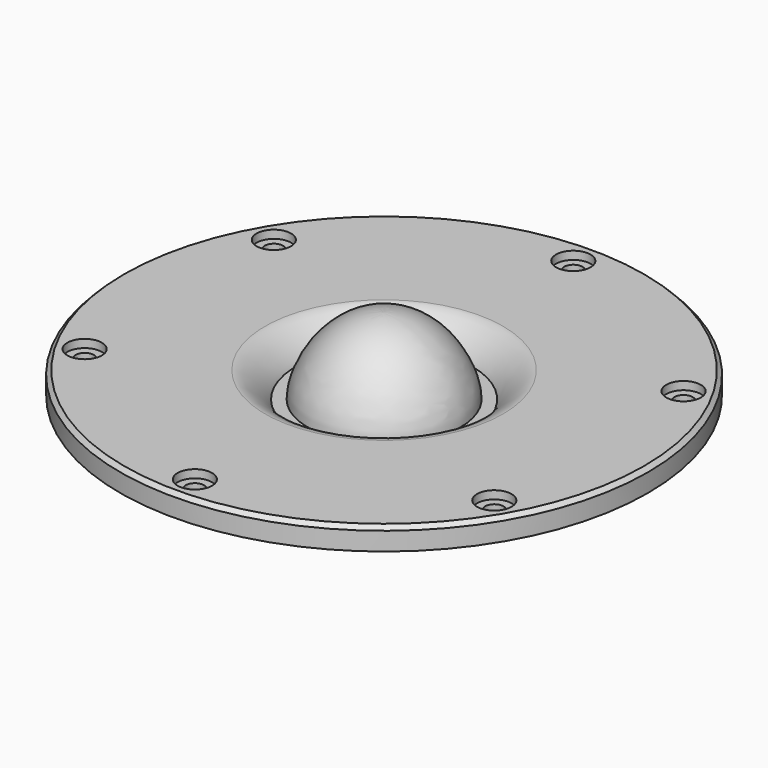
from build123d import *

# Parameters (mm, degrees)
F2_R     = 2.25
F3_DEPTH = 25
F2_R_2   = 4.25
F4_DEPTH = 2
F5_SIZE  = 1


with BuildPart() as f1:
    # F0 (on Front) → F1 (revolve)
    with BuildSketch(Plane.XZ):
        with BuildLine():
            Line((65, -5.5), (65, 0))
            Line((65, 0), (29.289105, 0))
            add(Edge.make_bspline(
                [(21.75, -6.322154), (22.552238, -4.150534), (26.594359, 0), (29.289105, 0)],
                knots=[0, 0, 0, 0, 9.839092, 9.839092, 9.839092, 9.839092], degree=3))
            Line((21.75, -6.322154), (18.75, -6.322154))
            add(Edge.make_bspline(
                [(0, 12.427846), (11.965546, 12.285027), (18.75, 0), (18.75, -6.322154)],
                knots=[0, 0, 0, 0, 26.516504, 26.516504, 26.516504, 26.516504], degree=3))
            Line((0, 12.427846), (0, -13.315069))
            Line((0, -13.315069), (45, -13.315069))
            Line((45, -13.315069), (45, -5.5))
            Line((45, -5.5), (65, -5.5))
        make_face()
    revolve(axis=Axis((0, 0, -0.443612), (0, 0, 1)))

    # F2 (on face) → F3 (cut)
    with BuildSketch(Plane.XY):
        with Locations((-50.44598, 29.125)):
            Circle(F2_R)
        with Locations((0, 58.25)):
            Circle(F2_R)
        with Locations((50.44598, 29.125)):
            Circle(F2_R)
        with Locations((50.44598, -29.125)):
            Circle(F2_R)
        with Locations((0, -58.25)):
            Circle(F2_R)
        with Locations((-50.44598, -29.125)):
            Circle(F2_R)
    extrude(amount=-F3_DEPTH, mode=Mode.SUBTRACT)

    # F2 (on face) → F4 (cut)
    with BuildSketch(Plane.XY):
        with Locations((-50.44598, 29.125)):
            Circle(F2_R_2)
        with Locations((-50.44598, 29.125)):
            Circle(F2_R, mode=Mode.SUBTRACT)
        with Locations((0, 58.25)):
            Circle(F2_R_2)
        with Locations((0, 58.25)):
            Circle(F2_R, mode=Mode.SUBTRACT)
        with Locations((50.44598, 29.125)):
            Circle(F2_R_2)
        with Locations((50.44598, 29.125)):
            Circle(F2_R, mode=Mode.SUBTRACT)
        with Locations((50.44598, -29.125)):
            Circle(F2_R_2)
        with Locations((50.44598, -29.125)):
            Circle(F2_R, mode=Mode.SUBTRACT)
        with Locations((0, -58.25)):
            Circle(F2_R_2)
        with Locations((0, -58.25)):
            Circle(F2_R, mode=Mode.SUBTRACT)
        with Locations((-50.44598, -29.125)):
            Circle(F2_R_2)
        with Locations((-50.44598, -29.125)):
            Circle(F2_R, mode=Mode.SUBTRACT)
    extrude(amount=-F4_DEPTH, mode=Mode.SUBTRACT)

    # F5
    f5_edges = [f1.edges().sort_by_distance(p)[0] for p in [
        (-65, 0, 0),
    ]]
    chamfer(f5_edges, length=F5_SIZE)


solid = f1.part
